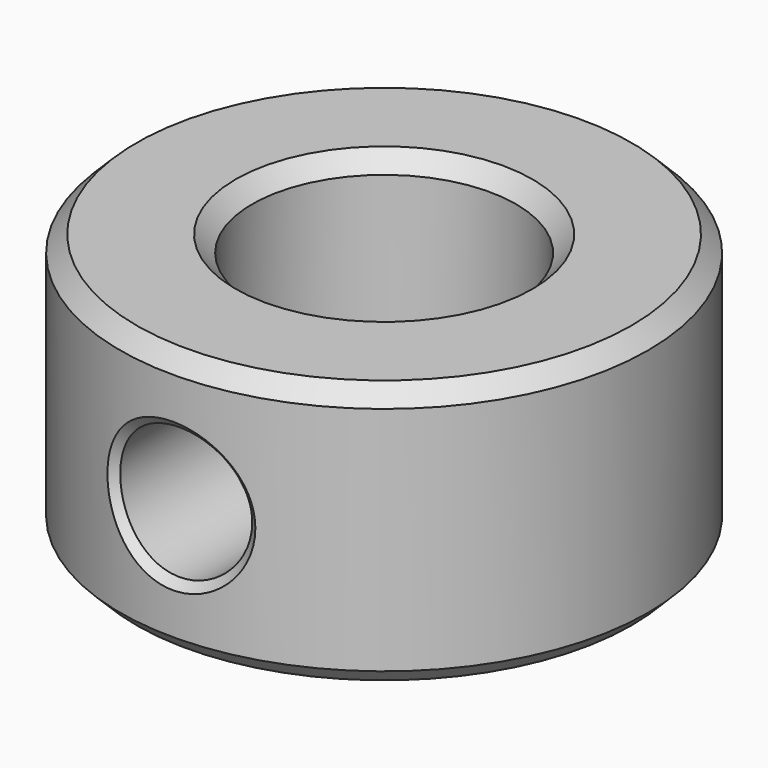
from build123d import *

# Parameters (mm, degrees)
SKETCH_R        = 8
SKETCH_R_2      = 4
PAD_DEPTH       = 8
SKETCH001_R     = 2
HOLE_DEPTH      = 8
CHAMFER_SIZE    = 0.5
CHAMFER001_SIZE = 0.25


with BuildPart() as part:
    # Sketch → Pad (new body)
    with BuildSketch(Plane.XY):
        Circle(SKETCH_R)
        Circle(SKETCH_R_2, mode=Mode.SUBTRACT)
    extrude(amount=PAD_DEPTH)

    # Sketch001 → Hole (cut)
    with BuildSketch(Plane.XZ.offset(8)):
        with Locations((0, 4)):
            Circle(SKETCH001_R)
    extrude(amount=-HOLE_DEPTH, mode=Mode.SUBTRACT)

    # Chamfer
    chamfer_edges = [part.edges().sort_by_distance(p)[0] for p in [
        (-8, 0, 8),
        (-8, 0, 0),
        (-4, 0, 8),
        (-4, 0, 0),
    ]]
    chamfer(chamfer_edges, length=CHAMFER_SIZE)

    # Chamfer001
    chamfer001_edges = [part.edges().sort_by_distance(p)[0] for p in [
        (-1.414274, -7.873997, 2.585847),
        (-1.414274, -7.873997, 5.414153),
        (2, -7.745967, 4),
    ]]
    chamfer(chamfer001_edges, length=CHAMFER001_SIZE)


solid = part.part
